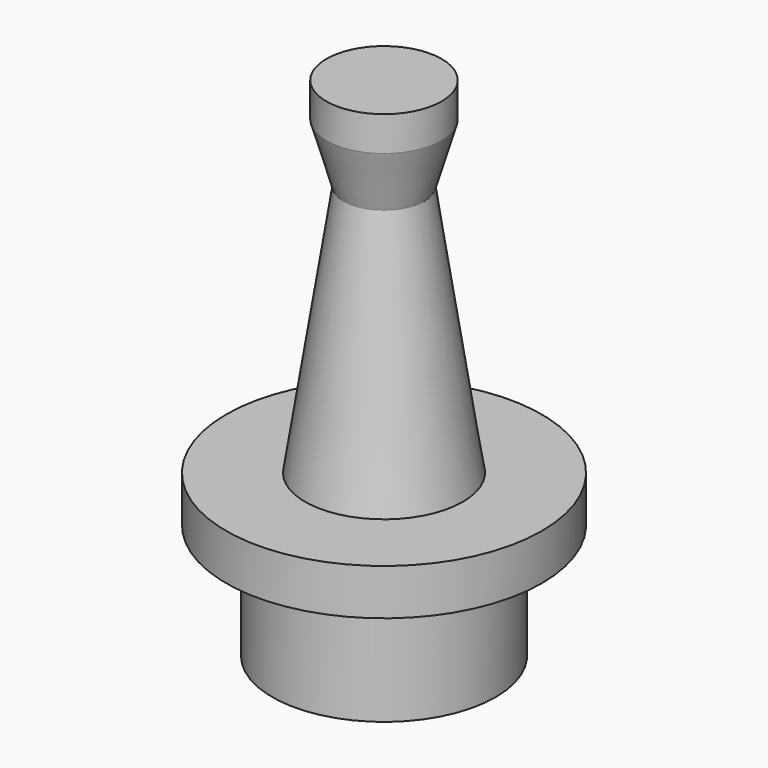
from build123d import *


with BuildPart() as f1:
    # F0 (on Front) → F1 (revolve)
    with BuildSketch(Plane.XZ):
        Polygon((0, 7), (0, 5), (0.85, 5), (0.85, 0), (4.85, 0), (4.85, 5), (6.85, 5), (6.85, 7), (3.425, 7), align=None)
        Polygon((0, 22), (0, 7), (3.425, 7), (1.750177, 17.936636), (2.5, 20.5), (2.5, 22), align=None)
    revolve(axis=Axis((0, 0, 15.337315), (0, 0, 1)))


solid = f1.part
